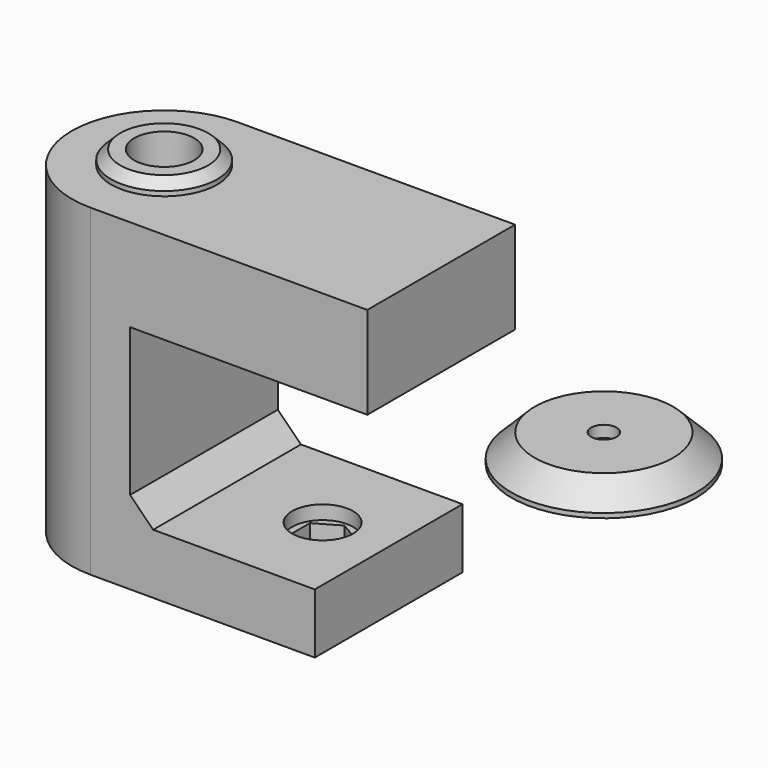
from build123d import *

# Parameters (mm, degrees)
F0_R      = 6.5
F1_DEPTH  = 20
F3_DEPTH  = 50
F4_DEPTH  = 22
F5_W      = 40
F5_H      = 40
F6_DEPTH  = 10
F7_R      = 11.5
F7_R_2    = 6.5
F8_DEPTH  = 3
F9_SIZE   = 2
F11_DEPTH = 3.5
F10_W     = 40
F10_H     = 40
F10_R     = 6.6
F12_DEPTH = 3
F13_DEPTH = 3
F14_D     = 6.2
F14_DEPTH = 10.001
F15_R     = 20
F15_R_2   = 2.75
F16_DEPTH = 6
F17_SIZE  = 5
F18_DEPTH = 2.5
F19_ANGLE = 180
F21_DEPTH = 40


with BuildPart() as f1:
    # F0 (on Top) → F1 (new body)
    with BuildSketch(Plane.XY):
        with BuildLine():
            Line((36.3812413297, 20), (-23.6187586703, 20))
            ThreePointArc((-23.6187586703, 20), (-9.4766230466, 14.1421356237), (-3.6187586703, 0))
            ThreePointArc((-3.6187586703, 0), (-9.4766230466, -14.1421356237), (-23.6187586703, -20))
            Line((-23.6187586703, -20), (36.3812413297, -20))
            Line((36.3812413297, -20), (36.3812413297, 20))
        make_face()
        with BuildLine():
            ThreePointArc((-3.6187586703, 0), (-9.4766230466, 14.1421356237), (-23.6187586703, 20))
            ThreePointArc((-23.6187586703, 20), (-43.6187586703, 0), (-23.6187586703, -20))
            ThreePointArc((-23.6187586703, -20), (-9.4766230466, -14.1421356237), (-3.6187586703, 0))
        make_face()
        with Locations((-23.6187586703, 0)):
            Circle(F0_R, mode=Mode.SUBTRACT)
    extrude(amount=F1_DEPTH)

    # F2 (on Top) → F3 (join)
    with BuildSketch(Plane.XY):
        with BuildLine():
            Line((-15, -20), (-15, 20))
            Line((-15, 20), (-23.6187586703, 20))
            ThreePointArc((-23.6187586703, 20), (-43.6187586703, 0), (-23.6187586703, -20))
            Line((-23.6187586703, -20), (-15, -20))
        make_face()
    extrude(amount=-F3_DEPTH)

    # F0 (on Top) → F4 (cut)
    with BuildSketch(Plane.XY):
        with Locations((-23.6187586703, 0)):
            Circle(F0_R)
    extrude(amount=-F4_DEPTH, mode=Mode.SUBTRACT)

    # F5 (on face) → F6 (join)
    with BuildSketch(Plane(origin=(0, 0, -50), x_dir=(1, 0, 0), z_dir=(0, 0, -1))):
        with Locations((5, 0)):
            Rectangle(F5_W, F5_H)
    extrude(amount=-F6_DEPTH)

    # F7 (on face) → F8 (join)
    with BuildSketch(Plane.XY.offset(20)):
        with Locations((-23.6187586703, 0)):
            Circle(F7_R)
        with Locations((-23.6187586703, 0)):
            Circle(F7_R_2, mode=Mode.SUBTRACT)
    extrude(amount=F8_DEPTH)

    # F9
    f9_edges = [f1.edges().sort_by_distance(p)[0] for p in [
        (-35.118759, 0, 23),
    ]]
    chamfer(f9_edges, length=F9_SIZE)

    # F10 (on face) → F11 (cut)
    with BuildSketch(Plane.XY.offset(-40)):
        Polygon((5.5810707825, 2.95), (5.5810707825, -2.95), (10.6906206648, -5.9), (15.8001705472, -2.95), (15.8001705472, 2.95), (10.6906206648, 5.9), align=None)
    extrude(amount=-F11_DEPTH, mode=Mode.SUBTRACT)

    # F10 (on face) → F12 (join)
    with BuildSketch(Plane.XY.offset(-40)):
        with Locations((5, 0)):
            Rectangle(F10_W, F10_H)
        with Locations((10.6906206648, 0)):
            Circle(F10_R, mode=Mode.SUBTRACT)
        with Locations((10.6906206648, 0)):
            Circle(F10_R)
        Polygon((10.6906206648, -5.9), (5.5810707825, -2.95), (5.5810707825, 2.95), (10.6906206648, 5.9), (15.8001705472, 2.95), (15.8001705472, -2.95), align=None, mode=Mode.SUBTRACT)
        Polygon((5.5810707825, 2.95), (5.5810707825, -2.95), (10.6906206648, -5.9), (15.8001705472, -2.95), (15.8001705472, 2.95), (10.6906206648, 5.9), align=None)
    extrude(amount=F12_DEPTH)

    # F10 (on face) → F13 (cut)
    with BuildSketch(Plane.XY.offset(-40)):
        with Locations((10.6906206648, 0)):
            Circle(F10_R)
        Polygon((10.6906206648, -5.9), (5.5810707825, -2.95), (5.5810707825, 2.95), (10.6906206648, 5.9), (15.8001705472, 2.95), (15.8001705472, -2.95), align=None, mode=Mode.SUBTRACT)
        Polygon((5.5810707825, 2.95), (5.5810707825, -2.95), (10.6906206648, -5.9), (15.8001705472, -2.95), (15.8001705472, 2.95), (10.6906206648, 5.9), align=None)
    extrude(amount=F13_DEPTH, mode=Mode.SUBTRACT)

    # F14 (through all, one way)
    with BuildSketch(Plane.XY.offset(-40)):
        with Locations((10.6906206648, 0)):
            Circle(F14_D / 2)
    extrude(amount=-F14_DEPTH, mode=Mode.SUBTRACT)

    # F20 (on face) → F21 (join)
    with BuildSketch(Plane.XZ.offset(20)):
        Polygon((-15, -32), (-15, -37), (-10, -37), align=None)
    extrude(amount=-F21_DEPTH)


with BuildPart() as f16:
    # F15 (on Top) → F16 (new body)
    with BuildSketch(Plane.XY):
        with Locations((71.6166347265, 0)):
            Circle(F15_R)
        with Locations((71.6166347265, 0)):
            Circle(F15_R_2, mode=Mode.SUBTRACT)
        with Locations((71.6166347265, 0)):
            Circle(F15_R_2)
    extrude(amount=F16_DEPTH)

    # F17
    f17_edges = [f16.edges().sort_by_distance(p)[0] for p in [
        (51.616635, 0, 0),
    ]]
    chamfer(f17_edges, length=F17_SIZE)

    # F15 (on Top) → F18 (cut)
    with BuildSketch(Plane.XY):
        with Locations((71.6166347265, 0)):
            Circle(F15_R_2)
    extrude(amount=F18_DEPTH, mode=Mode.SUBTRACT)


with BuildPart() as f16_1:
    # F19: moved
    add(f16.part.rotate(Axis((-1.4796741307, 0, 0), (1, 0, 0)), F19_ANGLE))


solid = Compound([f1.part, f16_1.part])
